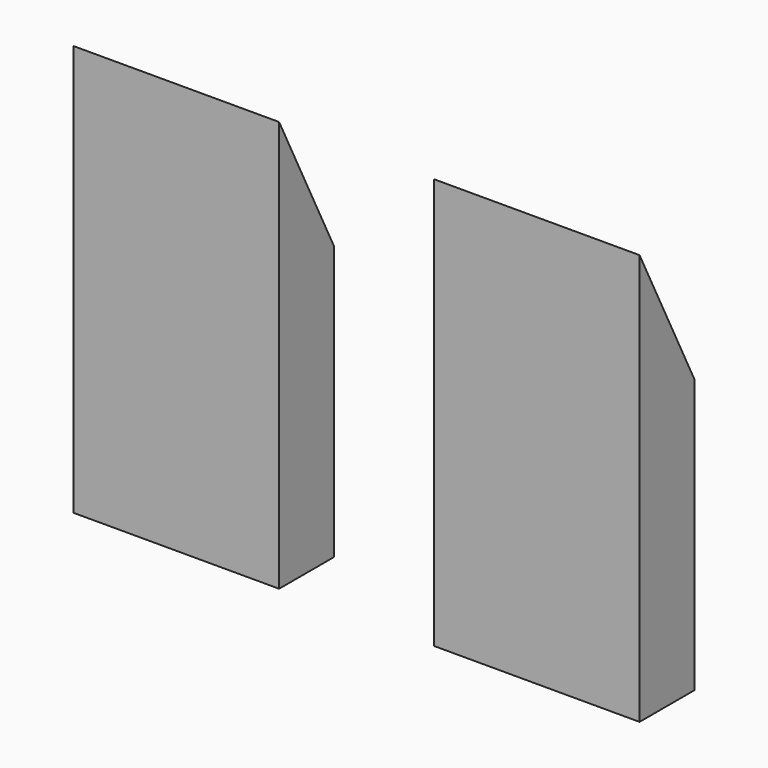
from build123d import *

# Parameters (mm, degrees)
F0_W     = 76.2
F0_H     = 152.4
F1_DEPTH = 25.4
F2_DEPTH = 25.4
F4_DEPTH = 76.2
F6_DEPTH = 76.2


with BuildPart() as f1:
    # F0 (on Front) → F1 (new body)
    with BuildSketch(Plane.XZ):
        with Locations((-38.7730817311, 10.5540846902)):
            Rectangle(F0_W, F0_H)
    extrude(amount=F1_DEPTH)

    # F5 (on face) → F6 (cut)
    with BuildSketch(Plane.YZ.offset(-0.6730817311)):
        Polygon((0, 86.7540846902), (-25.4, 86.7540846902), (0, 35.9540846902), align=None)
    extrude(amount=-F6_DEPTH, mode=Mode.SUBTRACT)


with BuildPart() as f2:
    # F0 (on Front) → F2 (new body)
    with BuildSketch(Plane.XZ):
        with Locations((94.90764094, 10.5540846902)):
            Rectangle(F0_W, F0_H)
    extrude(amount=F2_DEPTH)

    # F3 (on face) → F4 (cut)
    with BuildSketch(Plane.YZ.offset(133.00764094)):
        Polygon((0, 86.7540846902), (-25.4, 86.7540846902), (0, 35.9540846902), align=None)
    extrude(amount=-F4_DEPTH, mode=Mode.SUBTRACT)


solid = Compound([f1.part, f2.part])
